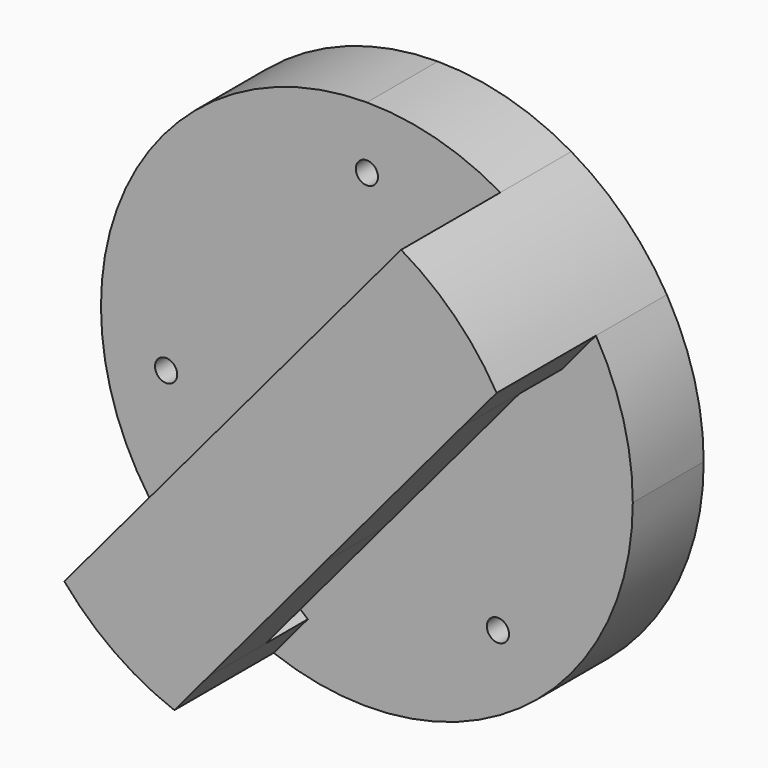
from build123d import *

# Parameters (mm, degrees)
F1_DEPTH = 12
F2_DEPTH = 8
F3_DEPTH = 5
F4_D     = 1.25


with BuildPart() as f1:
    # F0 (on Front) → F1 (new body)
    with BuildSketch(Plane.XZ):
        with BuildLine():
            Line((10.99224894, 5.3214330306), (12.920611769, 7.61956636))
            ThreePointArc((12.920611769, 7.61956636), (10.5696440554, 10.6434310512), (7.529497646, 12.9733058701))
            Line((7.529497646, 12.9733058701), (5.1924112184, 10.1880747237))
            Line((5.1924112184, 10.1880747237), (10.99224894, 5.3214330306))
        make_face()
        Polygon((3.2635182233, -3.8893095672), (10.99224894, 5.3214330306), (5.1924112184, 10.1880747237), (0, 4), (0, 0), align=None)
        Polygon((-3.939231012, -0.6945927107), (0, 0), (0, 4), align=None)
        Polygon((-3.3318045088, -11.7493091275), (3.2635182233, -3.8893095672), (0, 0), (-3.939231012, -0.6945927107), (-9.1316422304, -6.8826674344), align=None)
        with BuildLine():
            ThreePointArc((-11.4687286581, -9.6678985807), (-8.6463339891, -12.2572798185), (-5.2601673378, -14.0474424568))
            Line((-5.2601673378, -14.0474424568), (-3.3318045088, -11.7493091275))
            Line((-3.3318045088, -11.7493091275), (-9.1316422304, -6.8826674344))
            Line((-9.1316422304, -6.8826674344), (-11.4687286581, -9.6678985807))
        make_face()
        Polygon((-3.3318045088, -11.7493091275), (3.2635182233, -3.8893095672), (0, 0), (-3.939231012, -0.6945927107), (-9.1316422304, -6.8826674344), align=None)
        Polygon((3.2635182233, -3.8893095672), (10.99224894, 5.3214330306), (5.1924112184, 10.1880747237), (0, 4), (0, 0), align=None)
    extrude(amount=F1_DEPTH)

    # F0 (on Front) → F2 (cut)
    with BuildSketch(Plane.XZ):
        Polygon((-3.939231012, -0.6945927107), (0, 0), (0, 4), align=None)
        Polygon((3.2635182233, -3.8893095672), (10.99224894, 5.3214330306), (5.1924112184, 10.1880747237), (0, 4), (0, 0), align=None)
        Polygon((-3.3318045088, -11.7493091275), (3.2635182233, -3.8893095672), (0, 0), (-3.939231012, -0.6945927107), (-9.1316422304, -6.8826674344), align=None)
    extrude(amount=F2_DEPTH, mode=Mode.SUBTRACT)

    # F0 (on Front) → F3 (join)
    with BuildSketch(Plane.XZ):
        with BuildLine():
            Line((5.1924112184, 10.1880747237), (7.529497646, 12.9733058701))
            ThreePointArc((7.529497646, 12.9733058701), (3.8987441535, 14.4844673366), (0, 15))
            Line((0, 15), (0, 4))
            Line((0, 4), (5.1924112184, 10.1880747237))
        make_face()
        Polygon((3.2635182233, -3.8893095672), (10.99224894, 5.3214330306), (5.1924112184, 10.1880747237), (0, 4), (0, 0), align=None)
        with BuildLine():
            Line((0, 4), (0, 15))
            ThreePointArc((0, 15), (-11.4906666468, 9.6418141453), (-14.7721162952, -2.604722665))
            Line((-14.7721162952, -2.604722665), (-3.939231012, -0.6945927107))
            Line((-3.939231012, -0.6945927107), (0, 4))
        make_face()
        with BuildLine():
            ThreePointArc((-14.7721162952, -2.604722665), (-13.5874059139, -6.3547148269), (-11.4687286581, -9.6678985807))
            Line((-11.4687286581, -9.6678985807), (-9.1316422304, -6.8826674344))
            Line((-9.1316422304, -6.8826674344), (-3.939231012, -0.6945927107))
            Line((-3.939231012, -0.6945927107), (-14.7721162952, -2.604722665))
        make_face()
        Polygon((-3.3318045088, -11.7493091275), (3.2635182233, -3.8893095672), (0, 0), (-3.939231012, -0.6945927107), (-9.1316422304, -6.8826674344), align=None)
        Polygon((-3.939231012, -0.6945927107), (0, 0), (0, 4), align=None)
        with BuildLine():
            ThreePointArc((9.6418141453, -11.4906666468), (13.5946168055, -6.3392739261), (15, 0))
            ThreePointArc((15, 0), (14.4708185072, 3.949102649), (12.920611769, 7.61956636))
            Line((12.920611769, 7.61956636), (10.99224894, 5.3214330306))
            Line((10.99224894, 5.3214330306), (3.2635182233, -3.8893095672))
            Line((3.2635182233, -3.8893095672), (9.6418141453, -11.4906666468))
        make_face()
        with BuildLine():
            ThreePointArc((-5.2601673378, -14.0474424568), (2.5365296809, -14.7839783948), (9.6418141453, -11.4906666468))
            Line((9.6418141453, -11.4906666468), (3.2635182233, -3.8893095672))
            Line((3.2635182233, -3.8893095672), (-3.3318045088, -11.7493091275))
            Line((-3.3318045088, -11.7493091275), (-5.2601673378, -14.0474424568))
        make_face()
    extrude(amount=F3_DEPTH)

    # F4 (through all)
    with Locations(Plane(origin=(0, 0, 0), x_dir=(1, 0, 0), z_dir=(0, 1, 0))):
        with Locations((7.3920575114, 8.8095110959), (-11.3252891596, 1.9969540432), (0, -11.5)):
            Hole(F4_D / 2)


solid = f1.part
